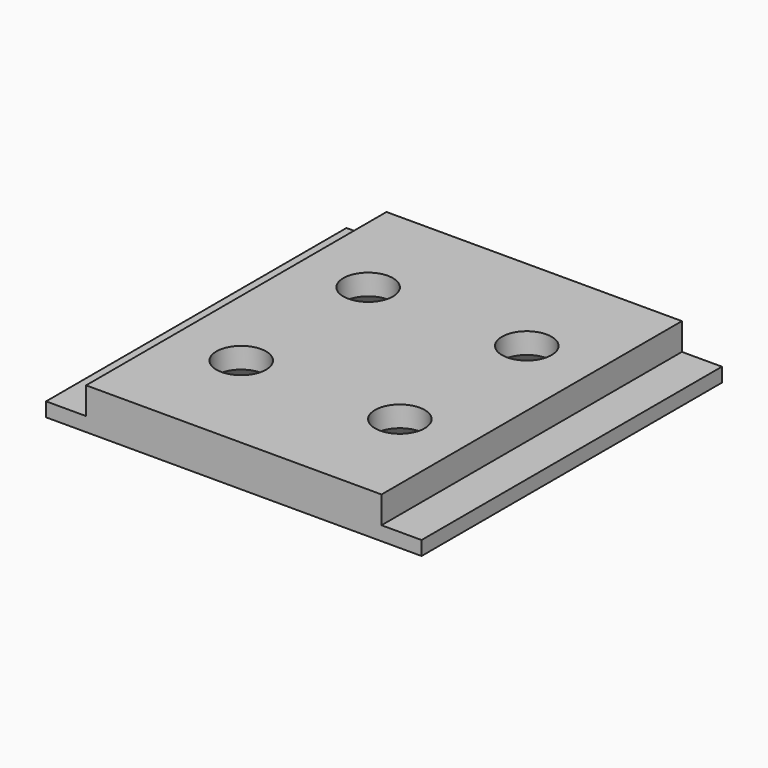
from build123d import *

# Parameters (mm, degrees)
F0_W           = 41.56
F0_H           = 41.56
F1_DEPTH       = 1.56
F2_W           = 32.7
F2_H           = 41.56
F3_DEPTH       = 3
F5_D           = 5.5
F5_DEPTH       = 8
F5_CSINK_D     = 10
F5_CSINK_ANGLE = 90


with BuildPart() as f1:
    # F0 (on Top) → F1 (new body)
    with BuildSketch(Plane.XY):
        with Locations((20.78, 20.78)):
            Rectangle(F0_W, F0_H)
    extrude(amount=F1_DEPTH)

    # F2 (on face) → F3 (join)
    with BuildSketch(Plane.XY.offset(1.56)):
        with Locations((20.78, 20.78)):
            Rectangle(F2_W, F2_H)
    extrude(amount=F3_DEPTH)

    # F5
    with Locations(Plane(origin=(0, 0, 0), x_dir=(1, 0, 0), z_dir=(0, 0, -1))):
        with Locations((12, -12), (29.56, -12), (12, -29.56), (29.56, -29.56)):
            CounterSinkHole(F5_D / 2, F5_CSINK_D / 2, depth=F5_DEPTH, counter_sink_angle=F5_CSINK_ANGLE)


solid = f1.part
